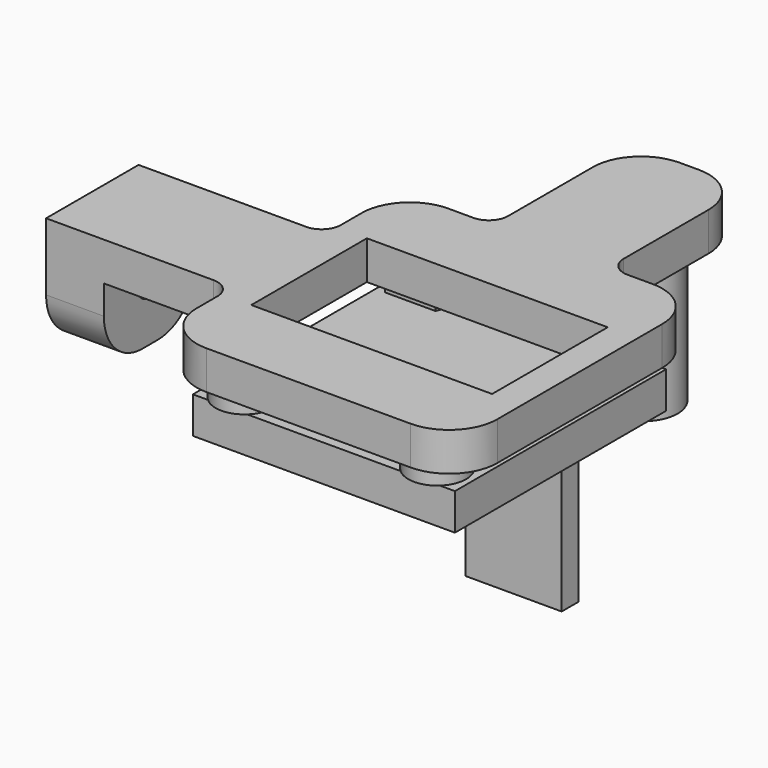
from build123d import *

# Parameters (mm, degrees)
F2_W      = 27.2
F2_H      = 27.4
F2_R      = 1
F3_DEPTH  = 3.8
F4_W      = 10
F4_H      = 2.2
F5_DEPTH  = 20
F7_W      = 25
F7_H      = 15
F8_DEPTH  = 4
F9_R      = 3.6
F9_R_2    = 1.6
F10_DEPTH = 15
F11_R     = 1
F12_DEPTH = 2
F13_W     = 6
F13_H     = 12
F14_DEPTH = 8
F15_R     = 1.75
F16_DEPTH = 6
F17_R     = 5
F18_R     = 2


with BuildPart() as f3:
    # F2 (on Top) → F3 (new body)
    with BuildSketch(Plane.XY):
        Rectangle(F2_W, F2_H)
        with Locations((-10, -11.5)):
            Circle(F2_R, mode=Mode.SUBTRACT)
        with Locations((10, -11.5)):
            Circle(F2_R, mode=Mode.SUBTRACT)
        with Locations((-10, 11.5)):
            Circle(F2_R, mode=Mode.SUBTRACT)
        with Locations((10, 11.5)):
            Circle(F2_R, mode=Mode.SUBTRACT)
    extrude(amount=F3_DEPTH)

    # F4 (on face) → F5 (join)
    with BuildSketch(Plane(origin=(0, 0, 0), x_dir=(1, 0, 0), z_dir=(0, 0, -1))):
        with Locations((0, -12)):
            Rectangle(F4_W, F4_H)
    extrude(amount=F5_DEPTH)


with BuildPart() as f8:
    # F7 (on offset) → F8 (new body)
    with BuildSketch(Plane.XY.offset(5.8)):
        Polygon((-6, 15.7), (-15.6, 15.7), (-15.6, 6), (-35, 6), (-35, -6), (-15.6, -6), (-15.6, -15.7), (15.6, -15.7), (15.6, 15.7), (6, 15.7), (6, 33.7), (-6, 33.7), align=None)
        Rectangle(F7_W, F7_H, mode=Mode.SUBTRACT)
    extrude(amount=F8_DEPTH)

    # F9 (on face) → F10 (join)
    with BuildSketch(Plane(origin=(0, 0, 5.8), x_dir=(1, 0, 0), z_dir=(0, 0, -1))):
        with Locations((0, -27.7)):
            Circle(F9_R)
        with Locations((0, -27.7)):
            Circle(F9_R_2, mode=Mode.SUBTRACT)
    extrude(amount=F10_DEPTH)

    # F11 (on face) → F12 (join, through all)
    with BuildSketch(Plane(origin=(0, 0, 5.8), x_dir=(1, 0, 0), z_dir=(0, 0, -1))):
        with BuildLine():
            Line((-12.5980762114, 10), (-7.4019237886, 10))
            ThreePointArc((-7.4019237886, 10), (-10, 14.5), (-12.5980762114, 10))
        make_face()
        with Locations((-10, 11.5)):
            Circle(F11_R, mode=Mode.SUBTRACT)
        with BuildLine():
            Line((-7.4019237886, -10), (-12.5980762114, -10))
            ThreePointArc((-12.5980762114, -10), (-10, -14.5), (-7.4019237886, -10))
        make_face()
        with Locations((-10, -11.5)):
            Circle(F11_R, mode=Mode.SUBTRACT)
        with BuildLine():
            Line((12.5980762114, -10), (7.4019237886, -10))
            ThreePointArc((7.4019237886, -10), (10, -14.5), (12.5980762114, -10))
        make_face()
        with Locations((10, -11.5)):
            Circle(F11_R, mode=Mode.SUBTRACT)
        with BuildLine():
            Line((7.4019237886, 10), (12.5980762114, 10))
            ThreePointArc((12.5980762114, 10), (10, 14.5), (7.4019237886, 10))
        make_face()
        with Locations((10, 11.5)):
            Circle(F11_R, mode=Mode.SUBTRACT)
    extrude(amount=F12_DEPTH)

    # F13 (on face) → F14 (join)
    with BuildSketch(Plane(origin=(0, 0, 5.8), x_dir=(1, 0, 0), z_dir=(0, 0, -1))):
        with Locations((-32, 0)):
            Rectangle(F13_W, F13_H)
    extrude(amount=F14_DEPTH)

    # F15 (on face) → F16 (cut, through all)
    with BuildSketch(Plane(origin=(-35, 0, 0), x_dir=(0, -1, 0), z_dir=(-1, 0, 0))):
        with Locations((0, 3.8)):
            Circle(F15_R)
    extrude(amount=-F16_DEPTH, mode=Mode.SUBTRACT)

    # F17
    f17_edges = [f8.edges().sort_by_distance(p)[0] for p in [
        (-15.6, 15.7, 7.8),
        (-15.6, -15.7, 7.8),
        (15.6, -15.7, 7.8),
        (-6, 33.7, 7.8),
        (6, 33.7, 7.8),
        (15.6, 15.7, 7.8),
        (-32, 6, -2.2),
        (-32, -6, -2.2),
    ]]
    fillet(f17_edges, radius=F17_R)

    # F18
    f18_edges = [f8.edges().sort_by_distance(p)[0] for p in [
        (-6, 15.7, 7.8),
        (6, 15.7, 7.8),
        (-15.6, -6, 7.8),
        (-15.6, 6, 7.8),
        (-3.6, 27.7, 5.8),
    ]]
    fillet(f18_edges, radius=F18_R)


solid = Compound([f3.part, f8.part])
